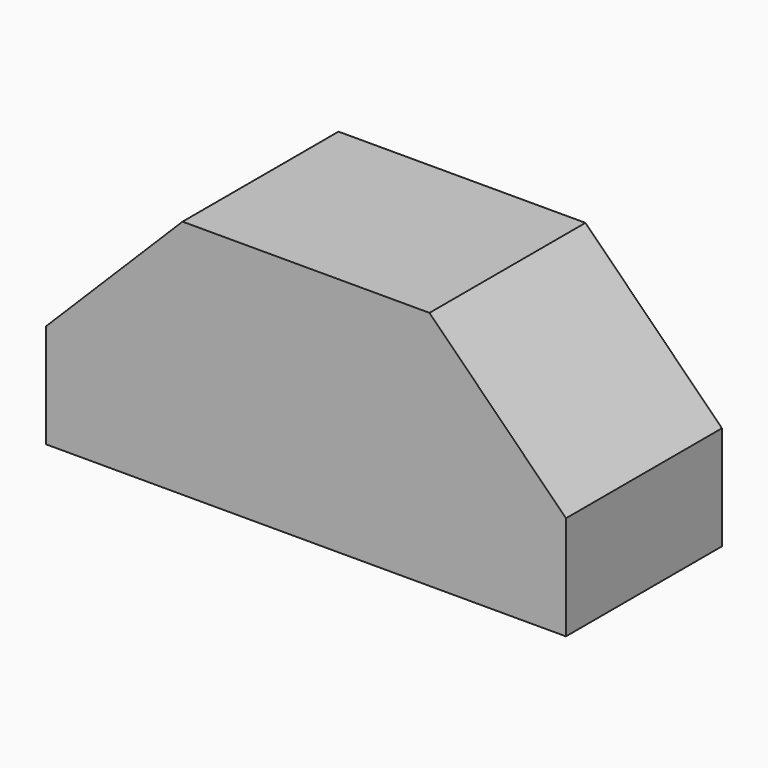
from build123d import *

# Parameters (mm, degrees)
F0_W     = 127
F0_H     = 58.7375
F1_DEPTH = 47.625
F3_DEPTH = 47.625


with BuildPart() as f1:
    # F0 (on Front) → F1 (new body)
    with BuildSketch(Plane.XZ):
        with Locations((2.857501, -20.093455)):
            Rectangle(F0_W, F0_H)
    extrude(amount=F1_DEPTH)

    # F2 (on face) → F3 (cut)
    with BuildSketch(Plane.XZ.offset(47.625)):
        Polygon((-60.642499, 9.275295), (-60.642499, -24.062205), (-27.304999, 9.275295), align=None)
        Polygon((33.020001, 9.275295), (66.357501, -24.062205), (66.357501, 9.275295), align=None)
    extrude(amount=-F3_DEPTH, mode=Mode.SUBTRACT)


solid = f1.part
